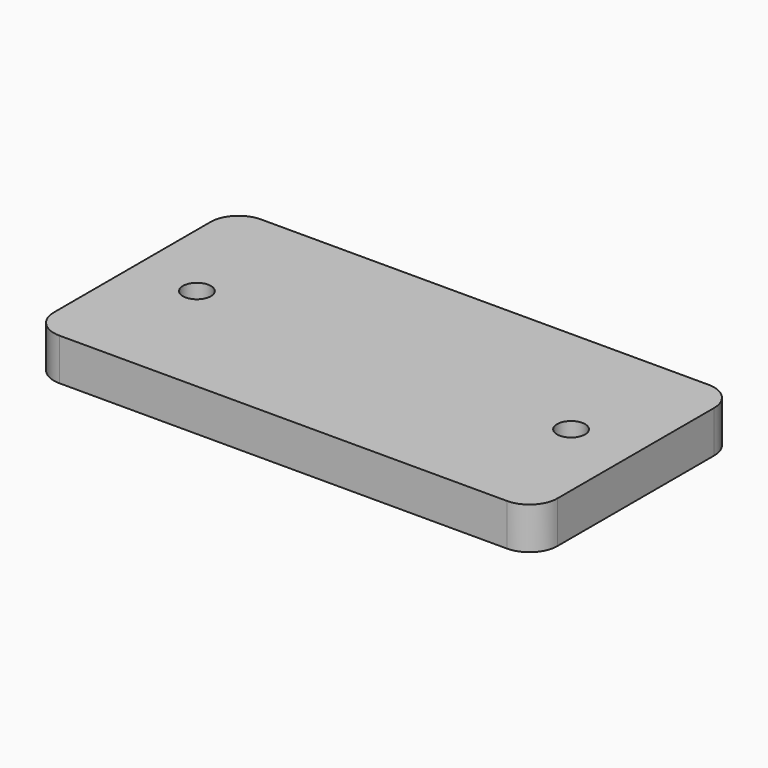
from build123d import *

# Parameters (mm, degrees)
F1_DEPTH = 3
F2_R     = 1
F3_DEPTH = 3


with BuildPart() as f1:
    # F0 (on Top) → F1 (new body)
    with BuildSketch(Plane.XY):
        with BuildLine():
            Line((-16, -9), (16, -9))
            ThreePointArc((16, -9), (17.414214, -8.414214), (18, -7))
            Line((18, -7), (18, 7))
            ThreePointArc((18, 7), (17.414214, 8.414214), (16, 9))
            Line((16, 9), (-16, 9))
            ThreePointArc((-16, 9), (-17.414214, 8.414214), (-18, 7))
            Line((-18, 7), (-18, -7))
            ThreePointArc((-18, -7), (-17.414214, -8.414214), (-16, -9))
        make_face()
    extrude(amount=F1_DEPTH)

    # F2 (on face) → F3 (cut, through all)
    with BuildSketch(Plane.XY.offset(3)):
        with Locations((13.375, 0)):
            Circle(F2_R)
        with Locations((-13.375, 0)):
            Circle(F2_R)
    extrude(amount=-F3_DEPTH, mode=Mode.SUBTRACT)


solid = f1.part
